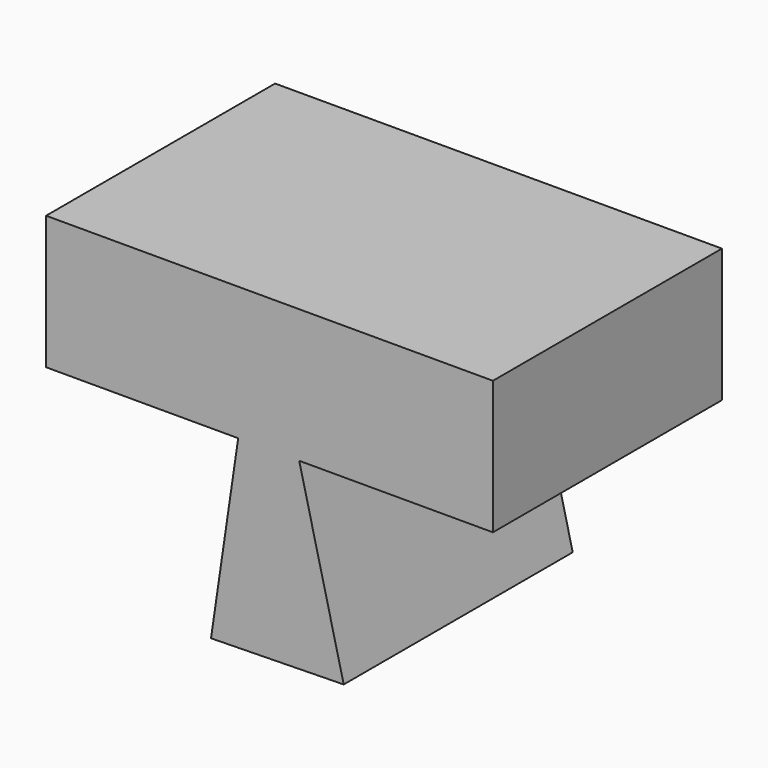
from build123d import *

# Parameters (mm, degrees)
F1_DEPTH = 76.2
F2_T     = -2.54


with BuildPart() as f1:
    # F0 (on Front) → F1 (new body)
    with BuildSketch(Plane.XZ):
        Polygon((-59.4698339701, 17.7578032017), (-59.4698339701, -17.7578032017), (-8.333414793, -17.7578032017), (7.914185524, -17.7578032017), (59.4698339701, -17.7578032017), (59.4698339701, 17.7578032017), align=None)
        Polygon((7.914185524, -17.7578032017), (-8.333414793, -17.7578032017), (-15.5670940876, -66.9916346669), (19.7590887547, -66.3285925984), align=None)
        Polygon((-59.4698339701, 17.7578032017), (-59.4698339701, -17.7578032017), (-8.333414793, -17.7578032017), (7.914185524, -17.7578032017), (59.4698339701, -17.7578032017), (59.4698339701, 17.7578032017), align=None)
    extrude(amount=F1_DEPTH)

    # F2
    f2_openings = [f1.faces().sort_by_distance(p)[0] for p in [
        (2.095997, -38.1, -66.660114),
        (-59.469834, -38.1, 0),
    ]]
    offset(amount=F2_T, openings=f2_openings, kind=Kind.INTERSECTION)


solid = f1.part
